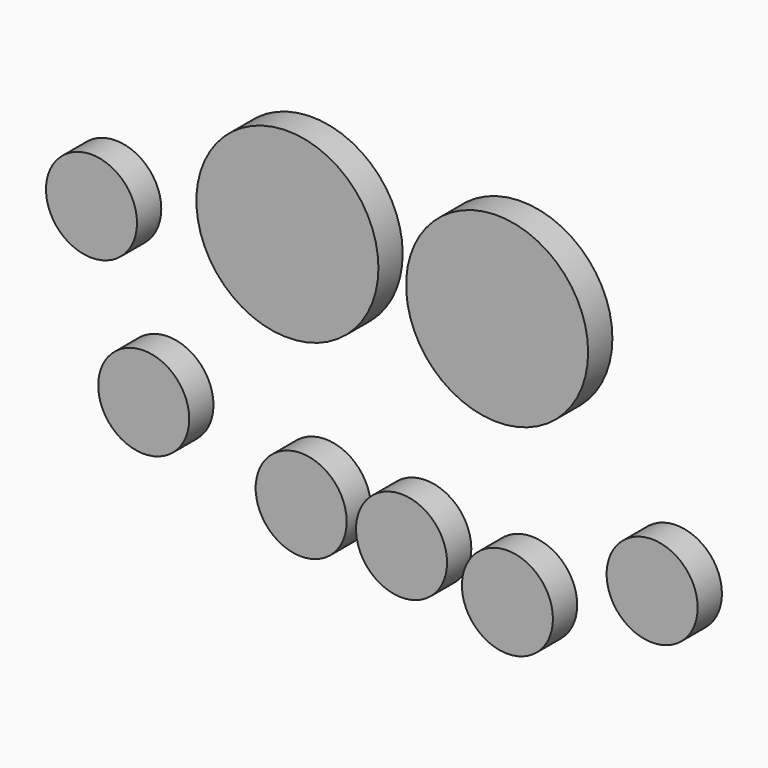
from build123d import *

# Parameters (mm, degrees)
F0_R     = 38.1
F0_R_2   = 19.05
F1_DEPTH = 12.7


with BuildPart() as f1:
    # F0 (on Front) → F1 (new body)
    with BuildSketch(Plane.XZ):
        with Locations((-47.776735, 49.791419)):
            Circle(F0_R)
        with Locations((40.005818, 47.201112)):
            Circle(F0_R)
        with Locations((-42.020502, -48.064548)):
            Circle(F0_R_2)
        with Locations((0, -49.503606)):
            Circle(F0_R_2)
        with Locations((44.322996, -55.835461)):
            Circle(F0_R_2)
        with Locations((-107.92937, -31.659282)):
            Circle(F0_R_2)
        with Locations((104.901999, -32.004002)):
            Circle(F0_R_2)
        with Locations((-129.778475, 33.46777)):
            Circle(F0_R_2)
    extrude(amount=F1_DEPTH)


solid = f1.part
